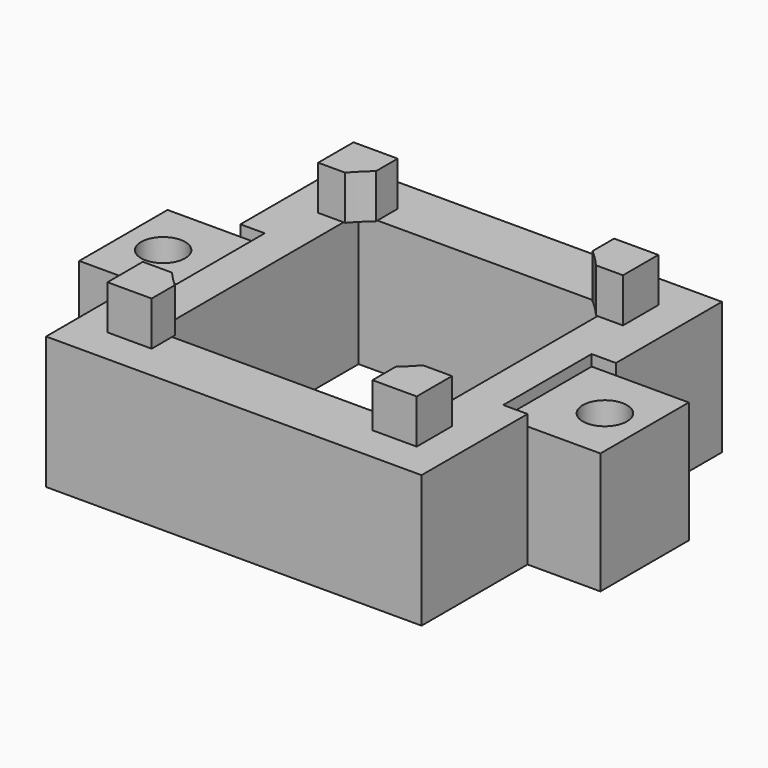
from build123d import *

# Parameters (mm, degrees)
SKETCH002_R  = 1
PAD002_DEPTH = 30
PAD_DEPTH    = 6
PAD001_DEPTH = 2
SKETCH003_W  = 5
SKETCH003_H  = 5
POCKET_DEPTH = 0.5


with BuildPart() as screw_hole:
    # Sketch002 → Pad002 (new body)
    with BuildSketch(Plane.XY):
        with Locations((10, 0)):
            Circle(SKETCH002_R)
    extrude(amount=PAD002_DEPTH)


with BuildPart() as pocket:
    # Sketch → Pad (new body)
    with BuildSketch(Plane.XY):
        Polygon((0, 8.5), (8.5, 8.5), (8.5, 2.5), (11.8, 2.5), (11.8, -2.5), (8.5, -2.5), (8.5, -8.5), (0, -8.5), (0, -5.75), (5.75, -5.75), (5.75, 5.75), (0, 5.75), align=None)
    extrude(amount=PAD_DEPTH)

    # Sketch001 → Pad001 (new body)
    with BuildSketch(Plane.XY.offset(6)):
        with BuildLine():
            Line((4.9, 6.9), (6.9, 6.9))
            Line((6.9, 6.9), (6.9, 4.9))
            Line((5.678028, 4.9), (6.9, 4.9))
            ThreePointArc((5.678028, 4.9), (5.303301, 5.303301), (4.9, 5.678028))
            Line((4.9, 6.9), (4.9, 5.678028))
        make_face()
        with BuildLine():
            Line((7, -4.9), (7, -6.9))
            Line((7, -6.9), (5, -6.9))
            Line((5, -5.59017), (5, -6.9))
            ThreePointArc((5, -5.59017), (5.350155, -5.25603), (5.678028, -4.9))
            Line((5.678028, -4.9), (7, -4.9))
        make_face()
    extrude(amount=PAD001_DEPTH)

    # Cut: cut Screw Hole
    add(screw_hole.part, mode=Mode.SUBTRACT)

    # Sketch003 → Pocket (cut)
    with BuildSketch(Plane.XY.offset(6)):
        with Locations((9.9, 0)):
            Rectangle(SKETCH003_W, SKETCH003_H)
    extrude(amount=-POCKET_DEPTH, mode=Mode.SUBTRACT)


with BuildPart() as fusion:
    # Part__Mirroring: instance of Pocket
    add(pocket.part.mirror(Plane(origin=(0, 0, 0), x_dir=(0, -1, 0), z_dir=(1, 0, 0))))

    # Fusion: union Pocket
    add(pocket.part)


solid = fusion.part
